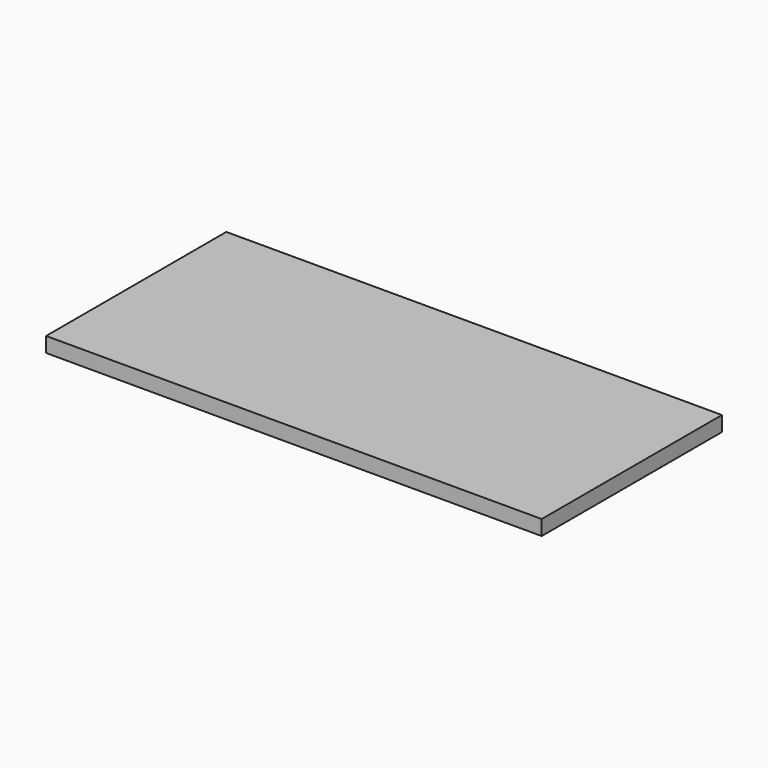
from build123d import *

# Parameters (mm, degrees)
F0_W     = 596.9
F0_H     = 254
F0_H_2   = 15.875
F0_W_2   = 15.875
F1_DEPTH = 19.05


with BuildPart() as f1:
    # F0 (on Top) → F1 (new body)
    with BuildSketch(Plane.XY):
        with Locations((-314.325, -142.875)):
            Rectangle(F0_W, F0_H)
        with Locations((-314.325, -7.9375)):
            Rectangle(F0_W, F0_H_2)
        with Locations((-620.7125, -142.875)):
            Rectangle(F0_W_2, F0_H)
        with Locations((-314.325, -277.8125)):
            Rectangle(F0_W, F0_H_2)
        with Locations((-7.9375, -142.875)):
            Rectangle(F0_W_2, F0_H)
        with Locations((-620.7125, -277.8125)):
            Rectangle(F0_W_2, F0_H_2)
        with Locations((-7.9375, -277.8125)):
            Rectangle(F0_W_2, F0_H_2)
        with Locations((-7.9375, -7.9375)):
            Rectangle(F0_W_2, F0_H_2)
        with Locations((-620.7125, -7.9375)):
            Rectangle(F0_W_2, F0_H_2)
    extrude(amount=F1_DEPTH)


solid = f1.part
